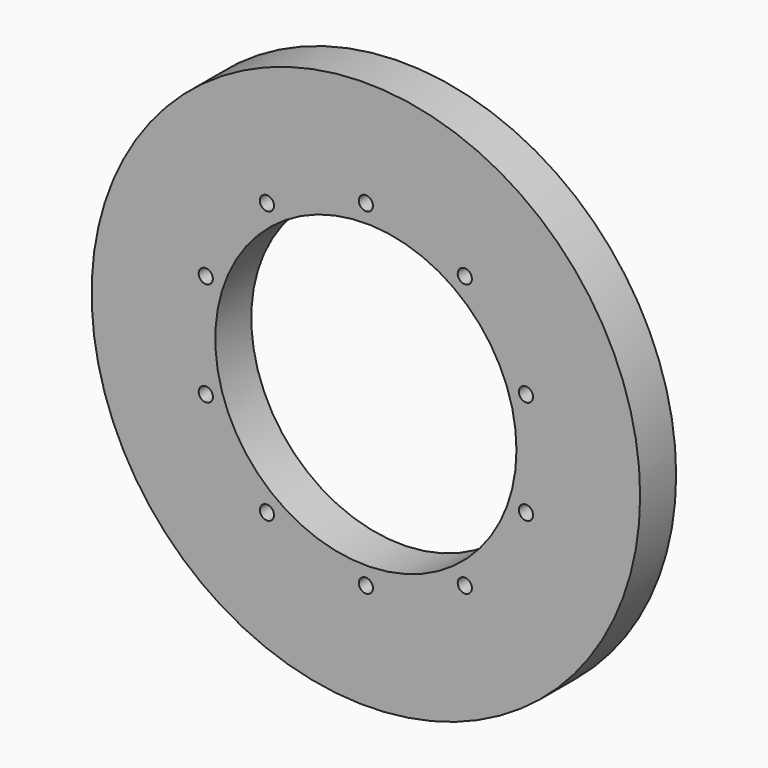
from build123d import *

# Parameters (mm, degrees)
F0_R     = 154.8
F0_R_2   = 4
F0_R_3   = 85
F1_DEPTH = 25.4


with BuildPart() as f1:
    # F0 (on Front) → F1 (new body)
    with BuildSketch(Plane.XZ):
        Circle(F0_R)
        with Locations((-90.350369, -29.356614)):
            Circle(F0_R_2, mode=Mode.SUBTRACT)
        with Locations((-55.839599, -76.856614)):
            Circle(F0_R_2, mode=Mode.SUBTRACT)
        with Locations((0, -95)):
            Circle(F0_R_2, mode=Mode.SUBTRACT)
        with Locations((55.839599, -76.856614)):
            Circle(F0_R_2, mode=Mode.SUBTRACT)
        with Locations((90.350369, -29.356614)):
            Circle(F0_R_2, mode=Mode.SUBTRACT)
        with Locations((-90.350369, 29.356614)):
            Circle(F0_R_2, mode=Mode.SUBTRACT)
        with Locations((-55.839599, 76.856614)):
            Circle(F0_R_2, mode=Mode.SUBTRACT)
        Circle(F0_R_3, mode=Mode.SUBTRACT)
        with Locations((55.839599, 76.856614)):
            Circle(F0_R_2, mode=Mode.SUBTRACT)
        with Locations((90.350369, 29.356614)):
            Circle(F0_R_2, mode=Mode.SUBTRACT)
        with Locations((0, 95)):
            Circle(F0_R_2, mode=Mode.SUBTRACT)
    extrude(amount=F1_DEPTH)


solid = f1.part
